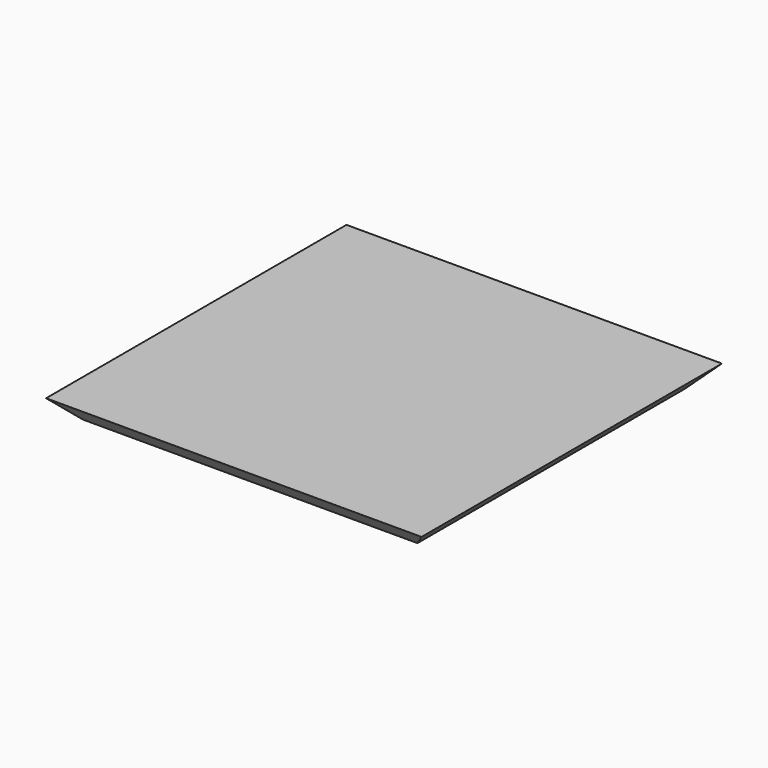
from build123d import *

# Parameters (mm, degrees)
SKETCH_W        = 110
SKETCH_H        = 110
PAD_DEPTH       = 6
POCKET_DEPTH    = 110
POCKET001_DEPTH = 110


with BuildPart() as part:
    # Sketch → Pad (new body)
    with BuildSketch(Plane.XY):
        Rectangle(SKETCH_W, SKETCH_H)
    extrude(amount=PAD_DEPTH)

    # Sketch002 (on Face3 of Pad) → Pocket (cut)
    with BuildSketch(Plane.XZ.offset(55)):
        Polygon((55, 6), (55, 0), (49, 0), align=None)
        Polygon((-55, 6), (-55, 0), (-49, 0), align=None)
    extrude(amount=-POCKET_DEPTH, mode=Mode.SUBTRACT)

    # Sketch001 (on Face2 of Pad) → Pocket001 (cut)
    with BuildSketch(Plane.YZ.offset(55)):
        Polygon((-55, 6), (-55, 0), (-49, 0), align=None)
        Polygon((55, 6), (49, 0), (55, 0), align=None)
    extrude(amount=-POCKET001_DEPTH, mode=Mode.SUBTRACT)


solid = part.part
